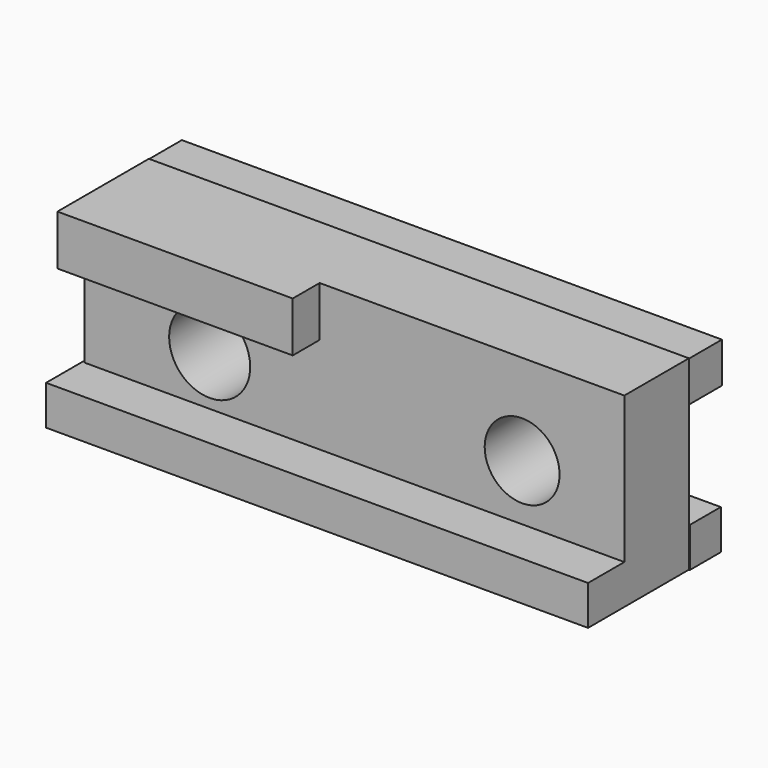
from build123d import *

# Parameters (mm, degrees)
F0_W      = 81.613116
F0_H      = 28.127378
F1_DEPTH  = 12.192
F2_W      = 81.937075
F2_H      = 6.007762
F3_DEPTH  = 5.842
F4_W      = 81.90459
F4_H      = 5.975246
F5_DEPTH  = 19.05
F6_W      = 81.61312
F6_H      = 6.120986
F7_DEPTH  = 6.604
F8_R      = 5.659431
F8_R_2    = 6.127921
F9_DEPTH  = 70.104
F10_W     = 35.560001
F10_H     = 7.578362
F11_DEPTH = 5.08


with BuildPart() as f1:
    # F0 (on Front) → F1 (new body)
    with BuildSketch(Plane.XZ):
        with Locations((5.246557, 14.063689)):
            Rectangle(F0_W, F0_H)
    extrude(amount=F1_DEPTH)

    # F2 (on Front) → F3 (join)
    with BuildSketch(Plane.XZ):
        with Locations((5.226239, 3.003881)):
            Rectangle(F2_W, F2_H)
    extrude(amount=-F3_DEPTH)

    # F4 (on Front) → F5 (join)
    with BuildSketch(Plane.XZ):
        with Locations((5.10082, 2.987623)):
            Rectangle(F4_W, F4_H)
    extrude(amount=F5_DEPTH)

    # F6 (on Front) → F7 (join)
    with BuildSketch(Plane.XZ):
        with Locations((4.955081, 24.775409)):
            Rectangle(F6_W, F6_H)
    extrude(amount=-F7_DEPTH)

    # F8 (on face) → F9 (cut)
    with BuildSketch(Plane(origin=(0, 0, 0), x_dir=(-1, 0, 0), z_dir=(0, 1, 0))):
        with Locations((-30.604918, 14.428033)):
            Circle(F8_R)
        with Locations((16.6141, 13.553606)):
            Circle(F8_R_2)
    extrude(amount=-F9_DEPTH, mode=Mode.SUBTRACT)

    # F10 (on face) → F11 (join)
    with BuildSketch(Plane.XZ.offset(12.192)):
        with Locations((-17.78, 24.338197)):
            Rectangle(F10_W, F10_H)
    extrude(amount=F11_DEPTH)


solid = f1.part
